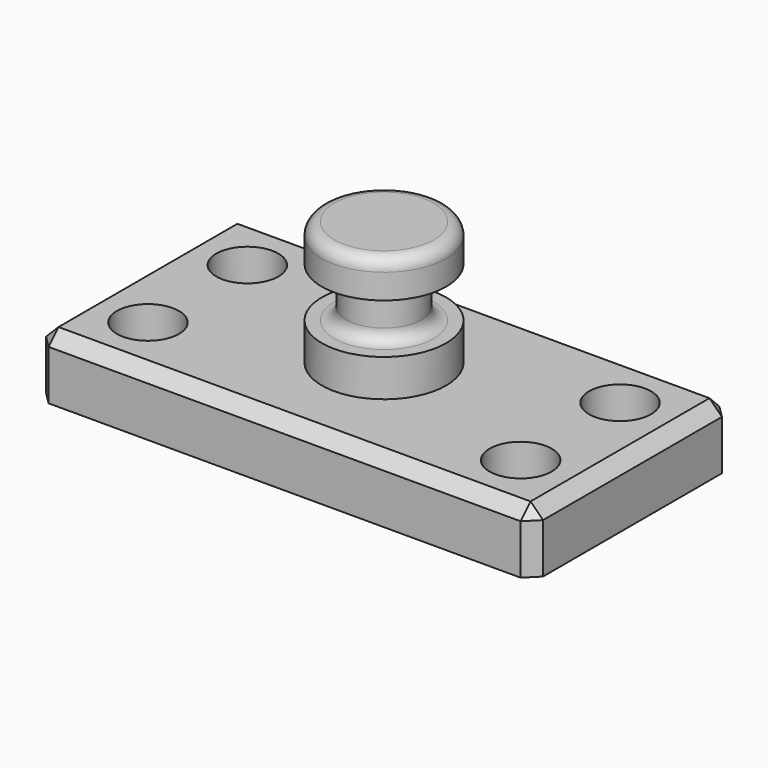
from build123d import *

# Parameters (mm, degrees)
F0_W     = 101.6
F0_H     = 50.8
F1_DEPTH = 12.7
F2_R     = 6.35
F3_DEPTH = 12.701
F4_W     = 12.7
F4_H     = 25.4
F6_W     = 5.08
F6_H     = 10.16
F8_R     = 2.54
F9_SIZE  = 2.54


with BuildPart() as f1:
    # F0 (on Top) → F1 (new body)
    with BuildSketch(Plane.XY):
        Rectangle(F0_W, F0_H)
    extrude(amount=F1_DEPTH)

    # F2 (on face) → F3 (cut, through all)
    with BuildSketch(Plane.XY.offset(12.7)):
        with Locations((-38.1, 12.7)):
            Circle(F2_R)
        with Locations((38.1, 12.7)):
            Circle(F2_R)
        with Locations((-38.1, -12.7)):
            Circle(F2_R)
        with Locations((38.1, -12.7)):
            Circle(F2_R)
    extrude(amount=-F3_DEPTH, mode=Mode.SUBTRACT)

    # F4 (on Front) → F5 (revolve)
    with BuildSketch(Plane.XZ):
        with Locations((6.35, 25.4)):
            Rectangle(F4_W, F4_H)
    revolve(axis=Axis((0, 0, 25.4), (0, 0, 1)))

    # F6 (on Front) → F7 (revolve, cut)
    with BuildSketch(Plane.XZ):
        with Locations((10.16, 25.4)):
            Rectangle(F6_W, F6_H)
    revolve(axis=Axis((0, 0, 12.7), (0, 0, 1)), mode=Mode.SUBTRACT)

    # F8
    f8_edges = [f1.edges().sort_by_distance(p)[0] for p in [
        (-12.7, 0, 38.1),
        (-7.62, 0, 30.48),
        (-7.62, 0, 20.32),
        (7.62, 0, 25.4),
    ]]
    fillet(f8_edges, radius=F8_R)

    # F9
    f9_edges = [f1.edges().sort_by_distance(p)[0] for p in [
        (0, -25.4, 12.7),
        (50.8, 0, 12.7),
        (0, 25.4, 12.7),
        (-50.8, 0, 12.7),
        (50.8, -25.4, 6.35),
        (50.8, 25.4, 6.35),
        (-50.8, -25.4, 6.35),
        (-50.8, 25.4, 6.35),
    ]]
    chamfer(f9_edges, length=F9_SIZE)


solid = f1.part
